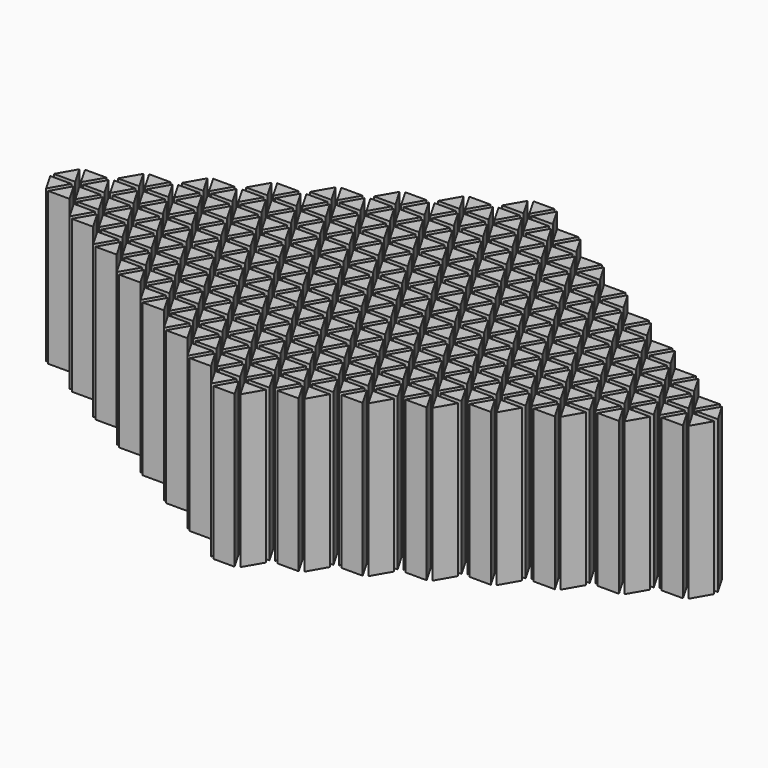
from build123d import *

# Parameters (mm, degrees)
PAD008_DEPTH          = 50
ARRAY_COUNT           = 6
ARRAY_PLACEMENT_ANGLE = 90
ARRAY001_X_COUNT      = 8
ARRAY001_X_PITCH      = 16.624356
ARRAY001_Y_COUNT      = 8
ARRAY001_Y_PITCH      = 16.624356


with BuildPart() as part:
    # Sketch020 → Pad008 (new body)
    with BuildSketch(Plane.XY):
        Polygon((7.562178, 3.5), (1.5, 0), (7.562178, -3.5), align=None)
    extrude(amount=PAD008_DEPTH)

    # Array: part ×6 about axis
    array_axis = Axis((0, 0, 0), (0, 0, 1))


with BuildPart() as part_1:
    add(part.part)
    for i in range(1, ARRAY_COUNT):
        add(part.part.rotate(array_axis, i * 360 / ARRAY_COUNT))


with BuildPart() as part_2:
    # Array placement: moved
    add(part_1.part.rotate(Axis((0, 0, 0), (0, 0, 1)), ARRAY_PLACEMENT_ANGLE))

    # Array001 X: part ×8


with BuildPart() as part_3:
    add(part_2.part)
    with Locations(*[Vector(0.866025, 0.5, 0) * (i * ARRAY001_X_PITCH) for i in range(1, ARRAY001_X_COUNT)]):
        add(part_2.part)

    # Array001 Y: part ×8


with BuildPart() as part_4:
    add(part_3.part)
    with Locations(*[Vector(-0.866025, 0.5, 0) * (i * ARRAY001_Y_PITCH) for i in range(1, ARRAY001_Y_COUNT)]):
        add(part_3.part)


solid = part_4.part
